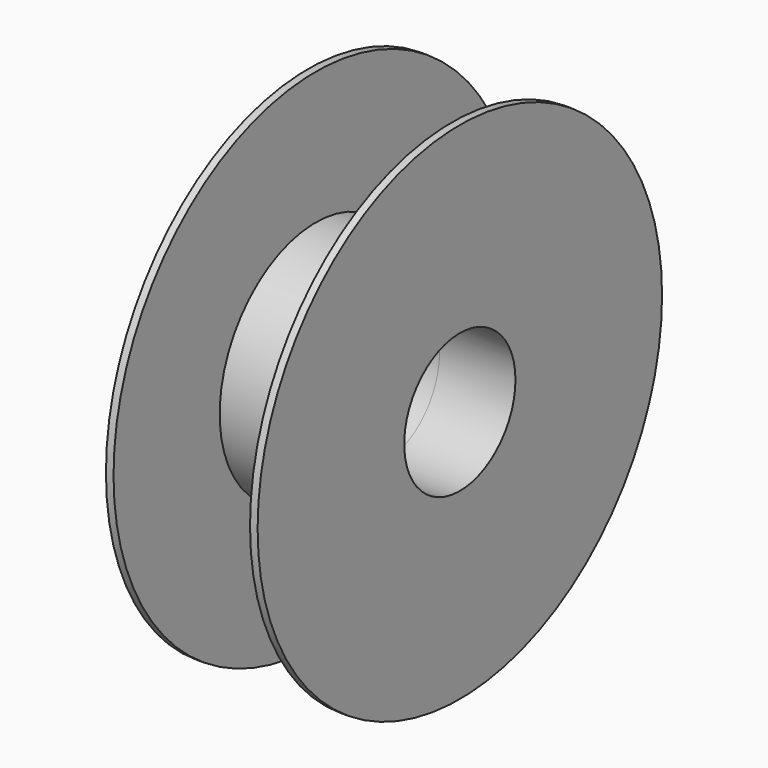
from build123d import *

# Parameters (mm, degrees)
F0_R     = 47.5
F0_R_2   = 27.5
F1_DEPTH = 30
F2_R     = 100
F2_R_2   = 47.5
F3_DEPTH = 3


with BuildPart() as f1:
    # F0 (on Right) → F1 (new body)
    with BuildSketch(Plane.YZ):
        Circle(F0_R)
        Circle(F0_R_2, mode=Mode.SUBTRACT)
    extrude(amount=F1_DEPTH)

    # F2 (on face) → F3 (join)
    with BuildSketch(Plane.YZ.offset(30)):
        Circle(F2_R)
        Circle(F2_R_2, mode=Mode.SUBTRACT)
    extrude(amount=-F3_DEPTH)

    # F4: F1 across face


with BuildPart() as f1_1:
    add(f1.part)
    add(f1.part.mirror(Plane(origin=(0, 0, 0), x_dir=(0, 1, 0), z_dir=(-1, 0, 0))))


solid = f1_1.part
